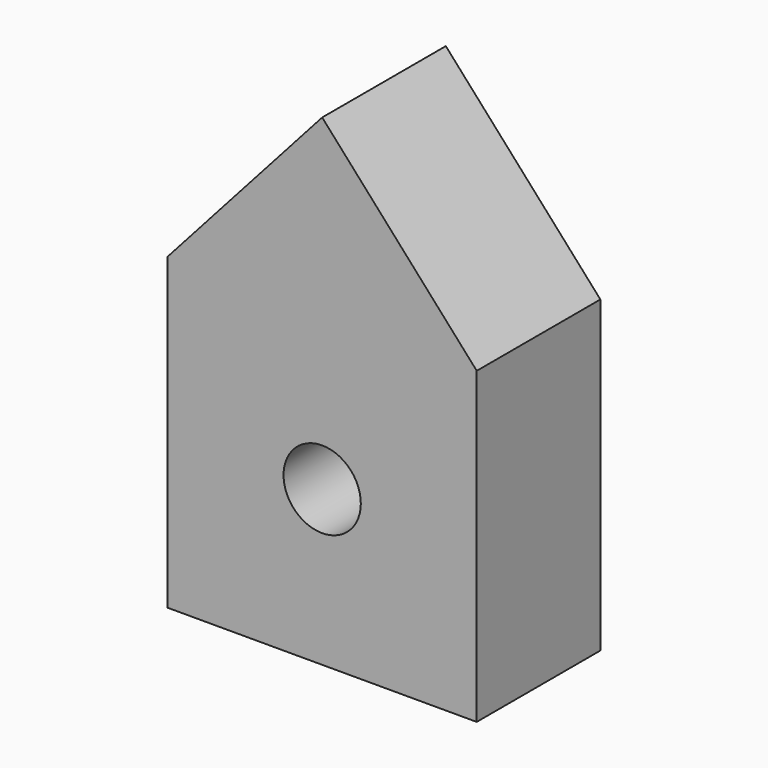
from build123d import *

# Parameters (mm, degrees)
F0_W     = 19.05
F0_H     = 19.05
F0_R     = 6.35
F1_DEPTH = 25.4


with BuildPart() as f1:
    # F0 (on Front) → F1 (new body)
    with BuildSketch(Plane.XZ):
        with Locations((-15.875, -15.875)):
            Rectangle(F0_W, F0_H)
        Polygon((-6.35, -6.35), (-6.35, -25.4), (25.4, -25.4), (25.4, 25.4), (-25.4, 25.4), (-25.4, -6.35), align=None)
        Circle(F0_R, mode=Mode.SUBTRACT)
        Polygon((0, 53.798063), (-25.4, 25.4), (25.4, 25.4), align=None)
    extrude(amount=F1_DEPTH)


solid = f1.part
